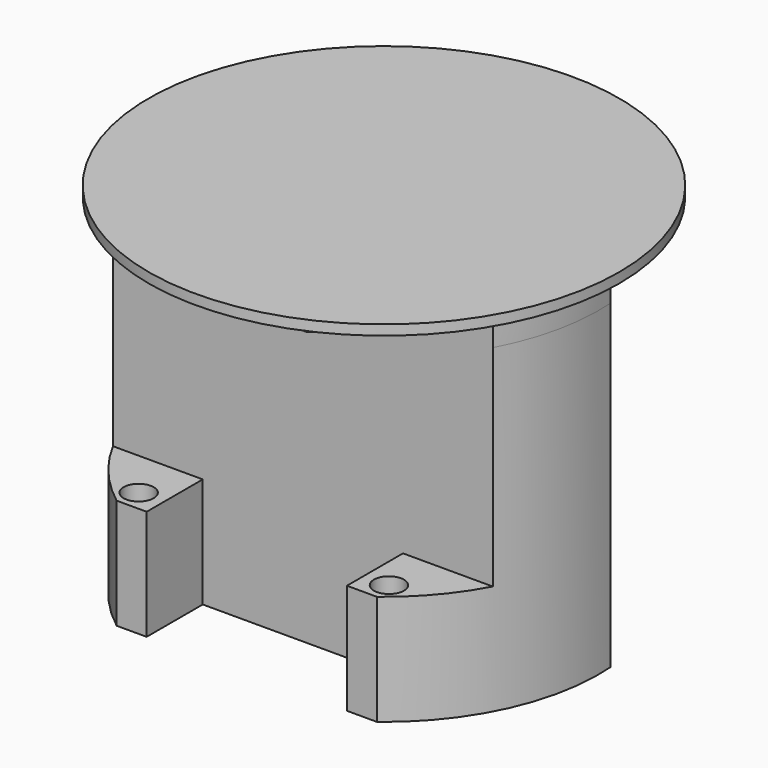
from build123d import *

# Parameters (mm, degrees)
SKETCH046_R     = 1.5
PAD026_DEPTH    = 32
POCKET016_DEPTH = 21
SKETCH049_W     = 38.6999153105
SKETCH049_H     = 8
POCKET017_DEPTH = 50
PAD027_DEPTH    = 3
SKETCH050_W     = 42.8952211791
SKETCH050_H     = 8
POCKET018_DEPTH = 32
SKETCH051_R     = 23.5
PAD028_DEPTH    = 1


with BuildPart() as part:
    # Sketch046 → Pad026 (new body)
    with BuildSketch(Plane.XY):
        with BuildLine():
            Line((-21.3218441303, 2.7620577266), (-17, 2))
            Line((-17, 2), (-17, 1))
            Line((-17, 1), (-19, 1))
            Line((-19, 1), (-19, -1))
            Line((-19, -1), (-17, -1))
            Line((-17, -1), (-17, -2))
            Line((-19.3499576553, -2.4143609381), (-17, -2))
            ThreePointArc((-19.3499576553, -2.4143609381), (-18.5993421546, -5.8578555305), (-17.2411687539, -9.11))
            Line((17.2411687539, -9.11), (-17.2411687539, -9.11))
            ThreePointArc((17.2411687539, -9.11), (18.5993421546, -5.8578555305), (19.3499576553, -2.4143609381))
            Line((19.3499576553, -2.4143609381), (17, -2))
            Line((17, -2), (17, -1))
            Line((17, -1), (19, -1))
            Line((19, -1), (19, 1))
            Line((19, 1), (17, 1))
            Line((17, 1), (17, 2))
            Line((17, 2), (21.3218441303, 2.7620577266))
            ThreePointArc((13, -17.1245437895), (19.8334685845, -8.2996098649), (21.3218441303, 2.7620577266))
            Line((13, -17.1245437895), (10, -17.1245437895))
            Line((10, -17.1245437895), (10, -10.1245437895))
            Line((10, -10.1245437895), (-10, -10.1245437895))
            Line((-10, -10.1245437895), (-10, -17.1245437895))
            Line((-10, -17.1245437895), (-13, -17.1245437895))
            ThreePointArc((-21.3218441303, 2.7620577266), (-19.8334685845, -8.2996098649), (-13, -17.1245437895))
        make_face()
        with Locations((-12.5, -15)):
            Circle(SKETCH046_R, mode=Mode.SUBTRACT)
        with Locations((12.5, -15)):
            Circle(SKETCH046_R, mode=Mode.SUBTRACT)
    extrude(amount=PAD026_DEPTH)

    # Sketch047 (on Face28 of Pad026) → Pocket016 (cut)
    with BuildSketch(Plane.XY.offset(32)):
        with BuildLine():
            ThreePointArc((-18.9669083684, -10.1245437895), (-16.3621761284, -13.9473722379), (-13, -17.1245437895))
            Line((-13, -17.1245437895), (13, -17.1245437895))
            ThreePointArc((13, -17.1245437895), (16.3621761284, -13.9473722379), (18.9669083684, -10.1245437895))
            Line((-18.9669083684, -10.1245437895), (18.9669083684, -10.1245437895))
        make_face()
    extrude(amount=-POCKET016_DEPTH, mode=Mode.SUBTRACT)

    # Sketch049 (on Face5 of Pocket016) → Pocket017 (cut)
    with BuildSketch(Plane.XY.offset(32)):
        with Locations((0, 1.5856390619)):
            Rectangle(SKETCH049_W, SKETCH049_H)
    extrude(amount=-POCKET017_DEPTH, mode=Mode.SUBTRACT)

    # Sketch048 (on Face5 of Pocket016) → Pad027 (join)
    with BuildSketch(Plane.XY.offset(32)):
        with BuildLine():
            ThreePointArc((-21.4476105895, 1.5), (-21.02655084, -4.4871104034), (-18.9669083684, -10.1245437895))
            Line((-13, -10.1245437895), (-18.9669083684, -10.1245437895))
            Line((-6, -17.1245437895), (-13, -10.1245437895))
            Line((6, -17.1245437895), (-6, -17.1245437895))
            Line((6, -17.1245437895), (13, -10.1245437895))
            Line((13, -10.1245437895), (18.9669083684, -10.1245437895))
            ThreePointArc((18.9669083684, -10.1245437895), (21.02655084, -4.4871104034), (21.4476105895, 1.5))
            Line((-21.4476105895, 1.5), (21.4476105895, 1.5))
        make_face()
    extrude(amount=PAD027_DEPTH)

    # Sketch050 (on Face24 of Pad027) → Pocket018 (cut)
    with BuildSketch(Plane.XY.offset(32)):
        with Locations((0, 5.5)):
            Rectangle(SKETCH050_W, SKETCH050_H)
    extrude(amount=-POCKET018_DEPTH, mode=Mode.SUBTRACT)

    # Sketch051 (on Face27 of Pocket018) → Pad028 (join)
    with BuildSketch(Plane.XY.offset(35)):
        Circle(SKETCH051_R)
    extrude(amount=PAD028_DEPTH)


with BuildPart() as part_1:
    # Body018 placement: moved
    add(part.part.moved(Location((0, 0, 200))))


solid = part_1.part
